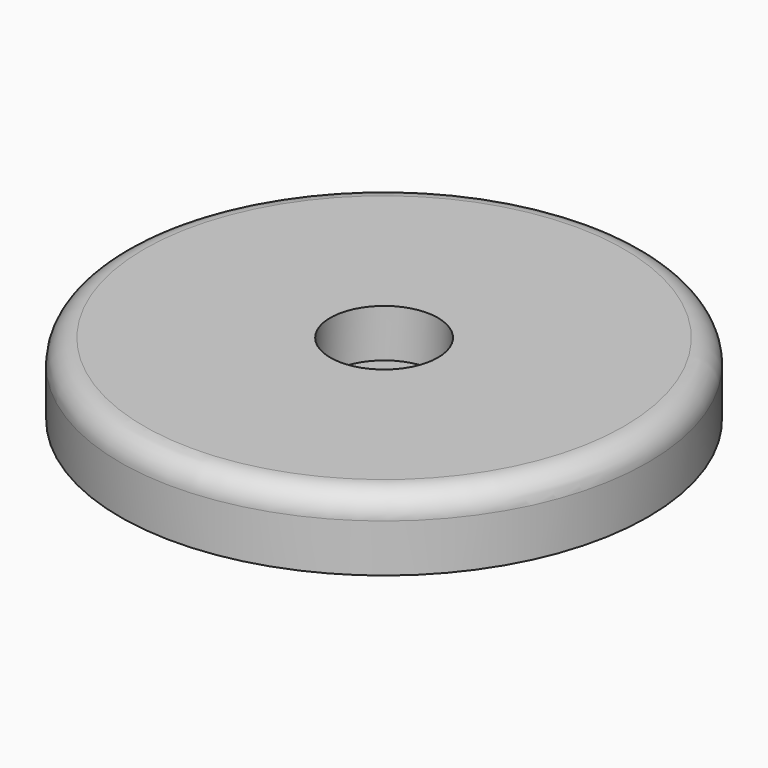
from build123d import *

# Parameters (mm, degrees)
F0_R     = 69.85
F0_R_2   = 14.25
F1_DEPTH = 19.05
F0_R_3   = 1.5875
F2_DEPTH = 6.35
F3_R     = 6.35


with BuildPart() as f1:
    # F0 (on Top) → F1 (new body)
    with BuildSketch(Plane.XY):
        with Locations((91.948161, 93.335833)):
            Circle(F0_R)
        with Locations((91.948161, 93.335833)):
            Circle(F0_R_2, mode=Mode.SUBTRACT)
    extrude(amount=F1_DEPTH)

    # F0 (on Top) → F2 (join)
    with BuildSketch(Plane.XY):
        with Locations((91.948161, 93.335833)):
            Circle(F0_R_2)
        with Locations((91.948161, 86.210787)):
            Circle(F0_R_3, mode=Mode.SUBTRACT)
        with Locations((91.948161, 100.460879)):
            Circle(F0_R_3, mode=Mode.SUBTRACT)
    extrude(amount=F2_DEPTH)

    # F3
    f3_edges = [f1.edges().sort_by_distance(p)[0] for p in [
        (22.098161, 93.335833, 19.05),
    ]]
    fillet(f3_edges, radius=F3_R)


solid = f1.part
